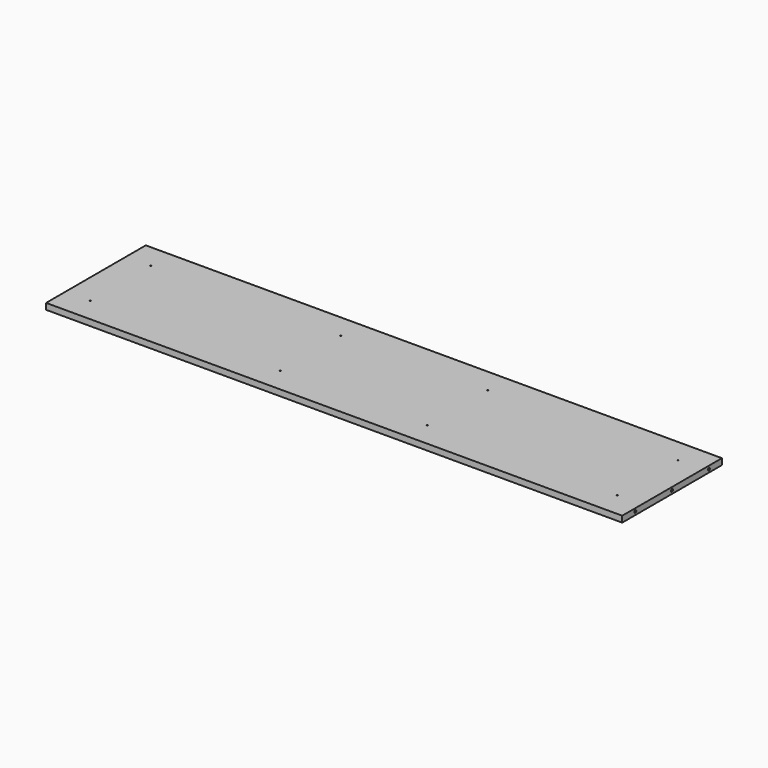
from build123d import *

# Parameters (mm, degrees)
F0_W      = 1790.7
F0_H      = 387.35
F1_DEPTH  = 19.05
F3_D      = 8.001
F3_DEPTH  = 14.224
F3_TIP    = 2.4037429064
F5_D      = 15.0114
F5_DEPTH  = 14.224
F5_TIP    = 4.5098795482
F7_D      = 3.175
F7_DEPTH  = 25.4
F7_TIP    = 0.9538662327
F9_D      = 8.001
F9_DEPTH  = 25.4
F9_TIP    = 2.4037429064
F11_D     = 8.001
F11_DEPTH = 25.4
F11_TIP   = 2.4037429064


with BuildPart() as f1:
    # F0 (on Top) → F1 (new body)
    with BuildSketch(Plane.XY):
        Rectangle(F0_W, F0_H)
    extrude(amount=F1_DEPTH)

    # F3
    with Locations(Plane(origin=(0, 0, 0), x_dir=(1, 0, 0), z_dir=(0, 0, -1))):
        with Locations((-844.55, 184.15), (-671.4871, 184.15), (-498.4242, 184.15), (-457.1492, 123.825), (-457.1492, -9.525), (-457.1492, -142.875), (457.1492, -142.875), (457.1492, -9.525), (457.1492, 123.825), (498.4242, 184.15), (671.4871, 184.15), (844.55, 184.15)):
            Hole(F3_D / 2, depth=F3_DEPTH)
            with Locations((0, 0, -(F3_DEPTH + F3_TIP / 2))):  # 118° drill point
                Cone(0, F3_D / 2, F3_TIP, mode=Mode.SUBTRACT)

    # F5
    with Locations(Plane(origin=(0, 0, 0), x_dir=(1, 0, 0), z_dir=(0, 0, -1))):
        with Locations((-871.474, 142.875), (-871.474, 0), (-871.474, -142.875), (871.474, 142.875), (871.474, 0), (871.474, -142.875)):
            Hole(F5_D / 2, depth=F5_DEPTH)
            with Locations((0, 0, -(F5_DEPTH + F5_TIP / 2))):  # 118° drill point
                Cone(0, F5_D / 2, F5_TIP, mode=Mode.SUBTRACT)

    # F7
    with Locations(Plane(origin=(0, 0, 0), x_dir=(1, 0, 0), z_dir=(0, 0, -1))):
        with Locations((-819.15, 117.475), (-819.15, -117.475), (-228.6, 117.475), (-228.6, -117.475), (228.6, 117.475), (819.15, 117.475), (819.15, -117.475), (228.6, -117.475)):
            Hole(F7_D / 2, depth=F7_DEPTH)
            with Locations((0, 0, -(F7_DEPTH + F7_TIP / 2))):  # 118° drill point
                Cone(0, F7_D / 2, F7_TIP, mode=Mode.SUBTRACT)

    # F9
    with Locations(Plane.YZ.offset(895.35)):
        with Locations((-142.875, 9.525), (142.875, 9.525), (0, 9.525)):
            Hole(F9_D / 2, depth=F9_DEPTH)
            with Locations((0, 0, -(F9_DEPTH + F9_TIP / 2))):  # 118° drill point
                Cone(0, F9_D / 2, F9_TIP, mode=Mode.SUBTRACT)

    # F11
    with Locations(Plane(origin=(-895.35, 0, 0), x_dir=(0, -1, 0), z_dir=(-1, 0, 0))):
        with Locations((-142.875, 9.525), (0, 9.525), (142.875, 9.525)):
            Hole(F11_D / 2, depth=F11_DEPTH)
            with Locations((0, 0, -(F11_DEPTH + F11_TIP / 2))):  # 118° drill point
                Cone(0, F11_D / 2, F11_TIP, mode=Mode.SUBTRACT)


solid = f1.part
